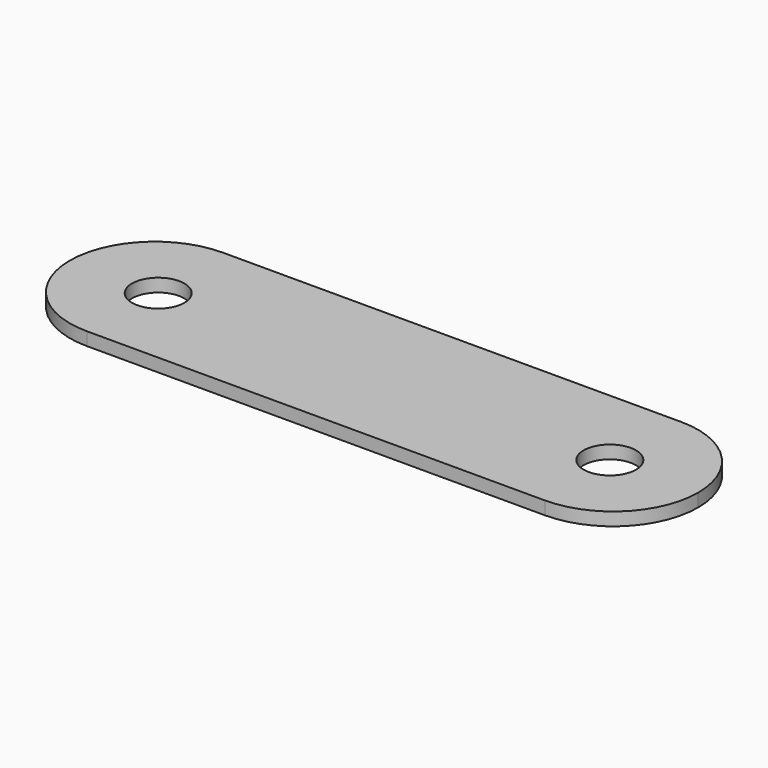
from build123d import *

# Parameters (mm, degrees)
F0_R     = 4
F1_DEPTH = 2


with BuildPart() as f1:
    # F0 (on Top) → F1 (new body)
    with BuildSketch(Plane.XY):
        with BuildLine():
            Line((37.180748, 7.621858), (-32.819252, 7.621858))
            ThreePointArc((-32.819252, 7.621858), (-42.01164, 3.814246), (-45.819252, -5.378142))
            ThreePointArc((-45.819252, -5.378142), (-42.01164, -14.57053), (-32.819252, -18.378142))
            Line((-32.819252, -18.378142), (37.180748, -18.378142))
            ThreePointArc((37.180748, -18.378142), (46.373136, -14.57053), (50.180748, -5.378142))
            ThreePointArc((50.180748, -5.378142), (46.373136, 3.814246), (37.180748, 7.621858))
        make_face()
        with Locations((-32.319252, -5.378142)):
            Circle(F0_R, mode=Mode.SUBTRACT)
        with Locations((36.680748, -5.378142)):
            Circle(F0_R, mode=Mode.SUBTRACT)
    extrude(amount=F1_DEPTH)


solid = f1.part
